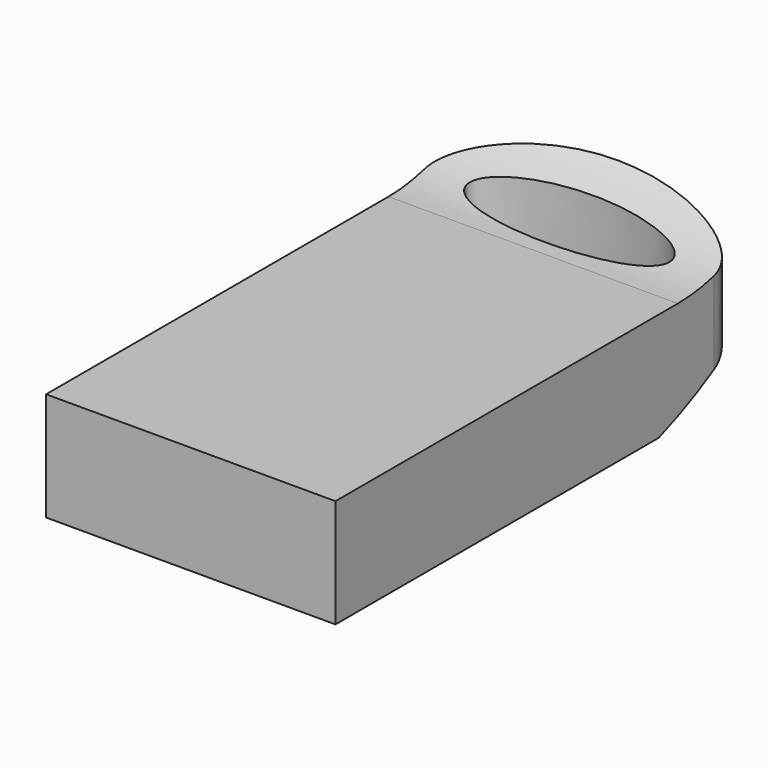
from build123d import *

# Parameters (mm, degrees)
F1_DEPTH = 6.096
F3_START = -6.0970001
F3_DEPTH = 12.1940002
F4_W     = 0.508
F4_H     = 1.905
F5_DEPTH = 2.8956


with BuildPart() as f1:
    # F0 (on Top) → F1 (new body)
    with BuildSketch(Plane.XY):
        with BuildLine():
            Line((-6.096, 19.939), (-6.096, 0))
            Line((-6.096, 0), (6.096, 0))
            Line((6.096, 0), (6.096, 19.939))
            add(Edge.make_bspline(
                [(6.096, 19.939), (6.096, 22.479), (0, 22.479), (-6.096, 22.479), (-6.096, 19.939)],
                knots=[3.1415926536, 3.1415926536, 3.1415926536, 4.7123889804, 4.7123889804, 6.2831853072, 6.2831853072, 6.2831853072], degree=2, weights=[1, 0.7071067812, 1, 0.7071067812, 1]))
        make_face()
        with BuildLine():
            add(Edge.make_bspline(
                [(-4.318, 19.939), (-4.318, 17.7392954744), (2.159, 18.8391477372), (8.636, 19.939), (2.159, 21.0388522628), (-4.318, 22.1387045256), (-4.318, 19.939)],
                knots=[0, 0, 0, 2.0943951024, 2.0943951024, 4.1887902048, 4.1887902048, 6.2831853072, 6.2831853072, 6.2831853072], degree=2, weights=[1, 0.5, 1, 0.5, 1, 0.5, 1]))
        make_face(mode=Mode.SUBTRACT)
    extrude(amount=F1_DEPTH)

    # F2 (on Right) → F3 (intersect)
    with BuildSketch(Plane.YZ.offset(F3_START)):
        with BuildLine():
            Line((0, 4.572), (0, 0))
            Line((0, 0), (17.018, 0))
            ThreePointArc((17.018, 0), (19.8988191337, 1.32895109), (22.479, 3.175))
            Line((22.479, 3.175), (22.479, 6.096))
            ThreePointArc((22.479, 6.096), (20.3835, 4.9635833333), (18.034, 4.572))
            Line((18.034, 4.572), (0, 4.572))
        make_face()
    extrude(amount=F3_DEPTH, mode=Mode.INTERSECT)

    # F4 (on face) → F5 (cut)
    with BuildSketch(Plane(origin=(0, 0, 0), x_dir=(1, 0, 0), z_dir=(0, 0, -1))):
        with Locations((0, -21.7805)):
            Rectangle(F4_W, F4_H)
    extrude(amount=-F5_DEPTH, mode=Mode.SUBTRACT)


solid = f1.part
